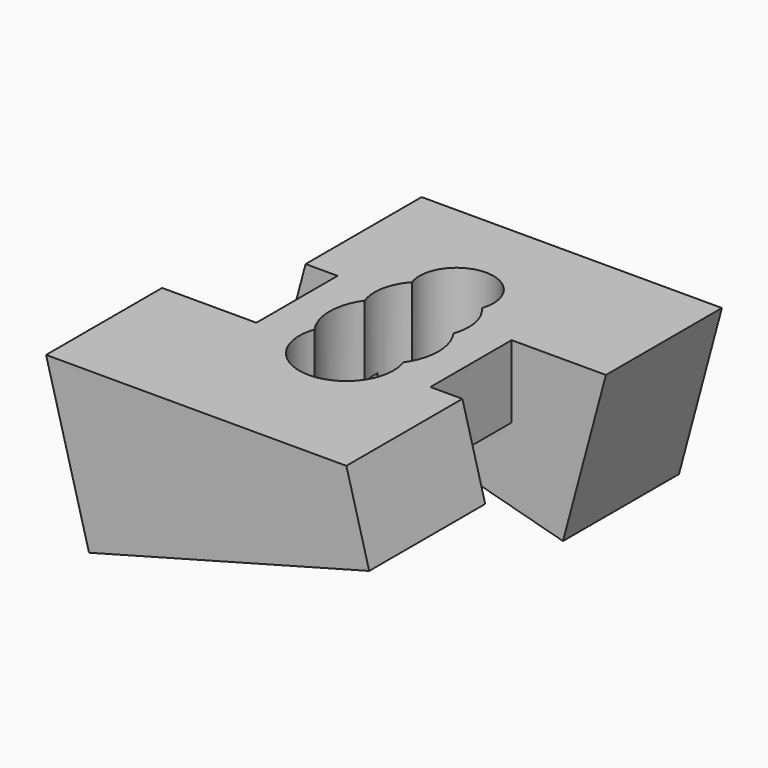
from build123d import *

# Parameters (mm, degrees)
CYLINDER012_R             = 5.1
CYLINDER012_DEPTH         = 50
CYLINDER007_R             = 7.5
CYLINDER007_DEPTH         = 70
CYLINDER009_R             = 6.5
CYLINDER009_DEPTH         = 70
CYLINDER010_R             = 7.5
CYLINDER010_DEPTH         = 70
CYLINDER011_R             = 6.5
CYLINDER011_DEPTH         = 70
FUSION007_PLACEMENT_ANGLE = 180
CYLINDER008_R             = 5.1
CYLINDER008_DEPTH         = 70
BOX003_W                  = 57
BOX003_H                  = 59
BOX003_DEPTH              = 20
CYLINDER004_R             = 6.35
CYLINDER004_DEPTH         = 50
BOX_W                     = 40
BOX_H                     = 20
BOX_DEPTH                 = 30
BOX_PLACEMENT_ANGLE       = 15
CYLINDER001_R             = 5
CYLINDER001_DEPTH         = 50
CYLINDER006_R             = 6.35
CYLINDER006_DEPTH         = 50
BOX001_W                  = 40
BOX001_H                  = 20
BOX001_DEPTH              = 30
BOX001_PLACEMENT_ANGLE    = 15
CYLINDER005_R             = 5
CYLINDER005_DEPTH         = 50
FUSION003_PLACEMENT_ANGLE = 180
BOX002_W                  = 24
BOX002_H                  = 39
BOX002_DEPTH              = 10


with BuildPart() as obj1:
    # Cylinder012 → Cylinder012 (new body)
    with BuildSketch(Plane(origin=(0, -12.5, -17), x_dir=(1, 0, 0), z_dir=(0, 0, 1))):
        Circle(CYLINDER012_R)
    extrude(amount=CYLINDER012_DEPTH)


with BuildPart() as obj2:
    # Cylinder007 → Cylinder007 (new body)
    with BuildSketch(Plane.XY):
        Circle(CYLINDER007_R)
    extrude(amount=CYLINDER007_DEPTH)


with BuildPart() as fusion006:
    # Cylinder009 → Cylinder009 (new body)
    with BuildSketch(Plane(origin=(0, 6.5, 0), x_dir=(1, 0, 0), z_dir=(0, 0, 1))):
        Circle(CYLINDER009_R)
    extrude(amount=CYLINDER009_DEPTH)

    # Fusion006: union obj2
    add(obj2.part)


with BuildPart() as obj3:
    # Cylinder010 → Cylinder010 (new body)
    with BuildSketch(Plane.XY):
        Circle(CYLINDER010_R)
    extrude(amount=CYLINDER010_DEPTH)


with BuildPart() as fusion008:
    # Cylinder011 → Cylinder011 (new body)
    with BuildSketch(Plane(origin=(0, 6.5, 0), x_dir=(1, 0, 0), z_dir=(0, 0, 1))):
        Circle(CYLINDER011_R)
    extrude(amount=CYLINDER011_DEPTH)

    # Fusion007: union obj3
    add(obj3.part)


with BuildPart() as fusion008_1:
    # Fusion007 placement: moved
    add(fusion008.part.rotate(Axis((0, 0, 0), (0, 0, 1)), FUSION007_PLACEMENT_ANGLE))

    # Fusion008: union Fusion006
    add(fusion006.part)


with BuildPart() as cylinder008:
    # Cylinder008 → Cylinder008 (new body)
    with BuildSketch(Plane(origin=(0, 12.5, 0), x_dir=(1, 0, 0), z_dir=(0, 0, 1))):
        Circle(CYLINDER008_R)
    extrude(amount=CYLINDER008_DEPTH)


with BuildPart() as cube003:
    # Box003 → Box003 (new body)
    with BuildSketch(Plane(origin=(-29.5, -29, 51.5), x_dir=(1, 0, 0), z_dir=(0, 0, 1))):
        with Locations((28.5, 29.5)):
            Rectangle(BOX003_W, BOX003_H)
    extrude(amount=BOX003_DEPTH)


with BuildPart() as obj4:
    # Cylinder004 → Cylinder004 (new body)
    with BuildSketch(Plane.XY):
        Circle(CYLINDER004_R)
    extrude(amount=CYLINDER004_DEPTH)


with BuildPart() as cube:
    # Box → Box (new body)
    with BuildSketch(Plane.XY):
        with Locations((20, 10)):
            Rectangle(BOX_W, BOX_H)
    extrude(amount=BOX_DEPTH)


with BuildPart() as cube_1:
    # Box placement: moved
    add(cube.part.moved(Location((-19.558238, 7, 39.759763))).rotate(Axis((-19.558238, 7, 39.759763), (0, 1, 0)), BOX_PLACEMENT_ANGLE))


with BuildPart() as fusion001:
    # Cylinder001 → Cylinder001 (new body)
    with BuildSketch(Plane(origin=(0, 12.5, 0), x_dir=(1, 0, 0), z_dir=(0, 0, 1))):
        Circle(CYLINDER001_R)
    extrude(amount=CYLINDER001_DEPTH)

    # Fusion: union Cube
    add(cube_1.part)

    # Fusion001: union obj4
    add(obj4.part)


with BuildPart() as obj5:
    # Cylinder006 → Cylinder006 (new body)
    with BuildSketch(Plane.XY):
        Circle(CYLINDER006_R)
    extrude(amount=CYLINDER006_DEPTH)


with BuildPart() as cube001:
    # Box001 → Box001 (new body)
    with BuildSketch(Plane.XY):
        with Locations((20, 10)):
            Rectangle(BOX001_W, BOX001_H)
    extrude(amount=BOX001_DEPTH)


with BuildPart() as cube001_1:
    # Box001 placement: moved
    add(cube001.part.moved(Location((-19.558238, 7, 39.759763))).rotate(Axis((-19.558238, 7, 39.759763), (0, 1, 0)), BOX001_PLACEMENT_ANGLE))


with BuildPart() as fusion004:
    # Cylinder005 → Cylinder005 (new body)
    with BuildSketch(Plane(origin=(0, 12.5, 0), x_dir=(1, 0, 0), z_dir=(0, 0, 1))):
        Circle(CYLINDER005_R)
    extrude(amount=CYLINDER005_DEPTH)

    # Fusion002: union Cube001
    add(cube001_1.part)

    # Fusion003: union obj5
    add(obj5.part)


with BuildPart() as fusion004_1:
    # Fusion003 placement: moved
    add(fusion004.part.rotate(Axis((0, 0, 0), (0, 0, 1)), FUSION003_PLACEMENT_ANGLE))

    # Fusion004: union Fusion001
    add(fusion001.part)


with BuildPart() as cut003:
    # Box002 → Box002 (new body)
    with BuildSketch(Plane(origin=(-12, -13, 41.5), x_dir=(1, 0, 0), z_dir=(0, 0, 1))):
        with Locations((12, 19.5)):
            Rectangle(BOX002_W, BOX002_H)
    extrude(amount=BOX002_DEPTH)

    # Fusion005: union Fusion004
    add(fusion004_1.part)

    # Cut: cut Cube003
    add(cube003.part, mode=Mode.SUBTRACT)

    # Cut001: cut Cylinder008
    add(cylinder008.part, mode=Mode.SUBTRACT)

    # Cut002: cut Fusion008
    add(fusion008_1.part, mode=Mode.SUBTRACT)

    # Cut003: cut obj1
    add(obj1.part, mode=Mode.SUBTRACT)


solid = cut003.part
